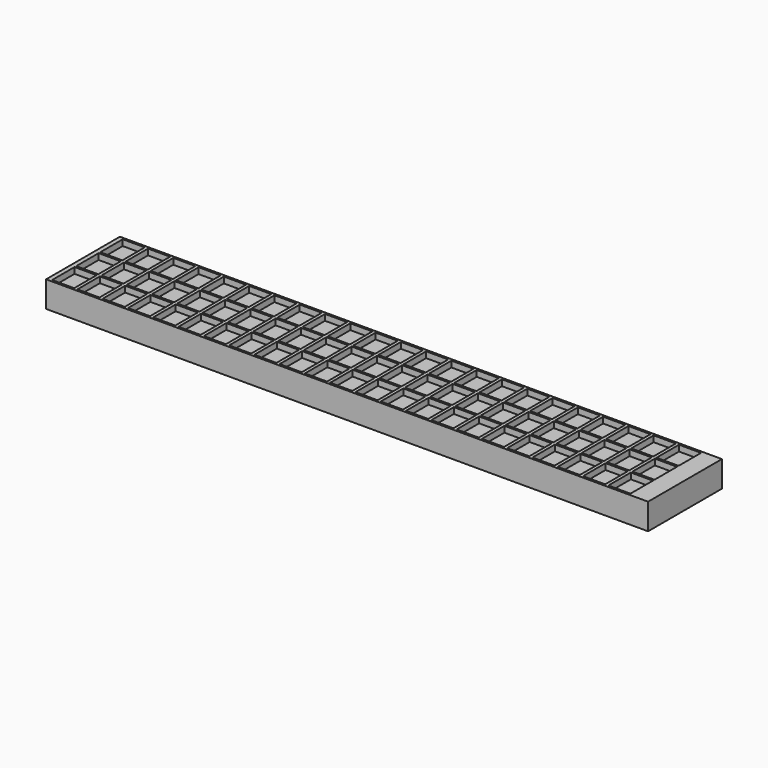
from build123d import *

# Parameters (mm, degrees)
BOX024_W          = 5.5
BOX024_H          = 7
BOX024_DEPTH      = 1.5
BOX023_W          = 5.5
BOX023_H          = 7
BOX023_DEPTH      = 1.5
BOX022_W          = 5.5
BOX022_H          = 7
BOX022_DEPTH      = 1.5
BOX021_W          = 150
BOX021_H          = 23
BOX021_DEPTH      = 1.5
CYLINDER006_R     = 3
CYLINDER006_DEPTH = 2.5
CYLINDER005_R     = 3
CYLINDER005_DEPTH = 2.5
CYLINDER007_R     = 3
CYLINDER007_DEPTH = 2.5
CYLINDER004_R     = 3
CYLINDER004_DEPTH = 2.5
BOX001_W          = 150
BOX001_H          = 23
BOX001_DEPTH      = 5


with BuildPart() as cube003:
    # Box024 → Box024 (new body)
    with BuildSketch(Plane(origin=(1.1, 15.5, 8), x_dir=(1, 0, 0), z_dir=(0, 0, 1))):
        with Locations((2.75, 3.5)):
            Rectangle(BOX024_W, BOX024_H)
    extrude(amount=BOX024_DEPTH)


with BuildPart() as cube002:
    # Box023 → Box023 (new body)
    with BuildSketch(Plane(origin=(1.1, 8, 8), x_dir=(1, 0, 0), z_dir=(0, 0, 1))):
        with Locations((2.75, 3.5)):
            Rectangle(BOX023_W, BOX023_H)
    extrude(amount=BOX023_DEPTH)


with BuildPart() as cube001:
    # Box022 → Box022 (new body)
    with BuildSketch(Plane(origin=(1.1, 0.5, 8), x_dir=(1, 0, 0), z_dir=(0, 0, 1))):
        with Locations((2.75, 3.5)):
            Rectangle(BOX022_W, BOX022_H)
    extrude(amount=BOX022_DEPTH)


with BuildPart() as fusion019:
    # Fusion019 base: copy of Cube001
    add(cube001.part)

    # Fusion019: union Cube003, Cube002
    add(cube003.part)
    add(cube002.part)


with BuildPart() as fusion019_1:
    # Fusion019 placement: moved
    add(fusion019.part.moved(Location((56.7, 0, 0))))


with BuildPart() as fusion018:
    # Fusion018 base: copy of Cube001
    add(cube001.part)

    # Fusion018: union Cube003, Cube002
    add(cube003.part)
    add(cube002.part)


with BuildPart() as fusion018_1:
    # Fusion018 placement: moved
    add(fusion018.part.moved(Location((50.4, 0, 0))))


with BuildPart() as fusion014:
    # Fusion014 base: copy of Cube001
    add(cube001.part)

    # Fusion014: union Cube003, Cube002
    add(cube003.part)
    add(cube002.part)


with BuildPart() as fusion014_1:
    # Fusion014 placement: moved
    add(fusion014.part.moved(Location((25.2, 0, 0))))


with BuildPart() as fusion015:
    # Fusion015 base: copy of Cube001
    add(cube001.part)

    # Fusion015: union Cube003, Cube002
    add(cube003.part)
    add(cube002.part)


with BuildPart() as fusion015_1:
    # Fusion015 placement: moved
    add(fusion015.part.moved(Location((31.5, 0, 0))))


with BuildPart() as fusion017:
    # Fusion017 base: copy of Cube001
    add(cube001.part)

    # Fusion017: union Cube003, Cube002
    add(cube003.part)
    add(cube002.part)


with BuildPart() as fusion017_1:
    # Fusion017 placement: moved
    add(fusion017.part.moved(Location((44.1, 0, 0))))


with BuildPart() as fusion016:
    # Fusion016 base: copy of Cube001
    add(cube001.part)

    # Fusion016: union Cube003, Cube002
    add(cube003.part)
    add(cube002.part)


with BuildPart() as fusion016_1:
    # Fusion016 placement: moved
    add(fusion016.part.moved(Location((37.8, 0, 0))))


with BuildPart() as fusion013:
    # Fusion013 base: copy of Cube001
    add(cube001.part)

    # Fusion013: union Cube003, Cube002
    add(cube003.part)
    add(cube002.part)


with BuildPart() as fusion013_1:
    # Fusion013 placement: moved
    add(fusion013.part.moved(Location((18.9, 0, 0))))


with BuildPart() as fusion011:
    # Fusion011 base: copy of Cube001
    add(cube001.part)

    # Fusion011: union Cube003, Cube002
    add(cube003.part)
    add(cube002.part)


with BuildPart() as fusion011_1:
    # Fusion011 placement: moved
    add(fusion011.part.moved(Location((6.3, 0, 0))))


with BuildPart() as fusion012:
    # Fusion012 base: copy of Cube001
    add(cube001.part)

    # Fusion012: union Cube003, Cube002
    add(cube003.part)
    add(cube002.part)


with BuildPart() as fusion012_1:
    # Fusion012 placement: moved
    add(fusion012.part.moved(Location((12.6, 0, 0))))


with BuildPart() as fusion010:
    # Fusion010 base: copy of Cube001
    add(cube001.part)

    # Fusion010: union Cube003, Cube002
    add(cube003.part)
    add(cube002.part)


with BuildPart() as f_10_of_them001:
    # Fusion021 base: copy of Fusion010
    add(fusion010.part)

    # Fusion021: union Fusion019, Fusion018, Fusion014, Fusion015, Fusion017, Fusion016, Fusion013, Fusion011, Fusion012
    add(fusion019_1.part)
    add(fusion018_1.part)
    add(fusion014_1.part)
    add(fusion015_1.part)
    add(fusion017_1.part)
    add(fusion016_1.part)
    add(fusion013_1.part)
    add(fusion011_1.part)
    add(fusion012_1.part)


with BuildPart() as f_10_of_them001_1:
    # Fusion021 placement: moved
    add(f_10_of_them001.part.moved(Location((63, 0, 0))))


with BuildPart() as fusion022:
    # Fusion022 base: copy of Cube001
    add(cube001.part)

    # Fusion022: union Cube003, Cube002
    add(cube003.part)
    add(cube002.part)


with BuildPart() as fusion022_1:
    # Fusion022 placement: moved
    add(fusion022.part.moved(Location((126, 0, 0))))


with BuildPart() as fusion024:
    # Fusion024 base: copy of Cube001
    add(cube001.part)

    # Fusion024: union Cube003, Cube002
    add(cube003.part)
    add(cube002.part)


with BuildPart() as fusion024_1:
    # Fusion024 placement: moved
    add(fusion024.part.moved(Location((138.6, 0, 0))))


with BuildPart() as fusion023:
    # Fusion023 base: copy of Cube001
    add(cube001.part)

    # Fusion023: union Cube003, Cube002
    add(cube003.part)
    add(cube002.part)


with BuildPart() as fusion023_1:
    # Fusion023 placement: moved
    add(fusion023.part.moved(Location((132.3, 0, 0))))


with BuildPart() as holes_soic8:
    # Fusion020 base: copy of Fusion010
    add(fusion010.part)

    # Fusion020: union Fusion019, Fusion018, Fusion014, Fusion015, Fusion017, Fusion016, Fusion013, Fusion011, Fusion012
    add(fusion019_1.part)
    add(fusion018_1.part)
    add(fusion014_1.part)
    add(fusion015_1.part)
    add(fusion017_1.part)
    add(fusion016_1.part)
    add(fusion013_1.part)
    add(fusion011_1.part)
    add(fusion012_1.part)

    # Fusion025: union 10 of them001, Fusion022, Fusion024, Fusion023
    add(f_10_of_them001_1.part)
    add(fusion022_1.part)
    add(fusion024_1.part)
    add(fusion023_1.part)


with BuildPart() as f_69x_soic8:
    # Box021 → Box021 (new body)
    with BuildSketch(Plane.XY.offset(8)):
        with Locations((75, 11.5)):
            Rectangle(BOX021_W, BOX021_H)
    extrude(amount=BOX021_DEPTH)

    # Cut008: cut Holes_SOIC8
    add(holes_soic8.part, mode=Mode.SUBTRACT)


with BuildPart() as cone002:
    # Cone002 → Cone002 (revolve)
    with BuildSketch(Plane(origin=(40, 11.5, 3), x_dir=(1, 0, 0), z_dir=(0, -1, 0))):
        Polygon((0, 0), (5.1, 0), (1.1, 4.1), (0, 4.1), align=None)
    revolve(axis=Axis((40, 11.5, 3), (0, 0, 1)))


with BuildPart() as cone003:
    # Cone003 → Cone003 (revolve)
    with BuildSketch(Plane(origin=(110, 11.5, 3), x_dir=(1, 0, 0), z_dir=(0, -1, 0))):
        Polygon((0, 0), (5.1, 0), (1.1, 4.1), (0, 4.1), align=None)
    revolve(axis=Axis((110, 11.5, 3), (0, 0, 1)))


with BuildPart() as cylinder006:
    # Cylinder006 → Cylinder006 (new body)
    with BuildSketch(Plane(origin=(24, 11.5, 3), x_dir=(1, 0, 0), z_dir=(0, 0, 1))):
        Circle(CYLINDER006_R)
    extrude(amount=CYLINDER006_DEPTH)


with BuildPart() as cylinder005:
    # Cylinder005 → Cylinder005 (new body)
    with BuildSketch(Plane(origin=(126, 11.5, 3), x_dir=(1, 0, 0), z_dir=(0, 0, 1))):
        Circle(CYLINDER005_R)
    extrude(amount=CYLINDER005_DEPTH)


with BuildPart() as cylinder007:
    # Cylinder007 → Cylinder007 (new body)
    with BuildSketch(Plane(origin=(134, 11.5, 3), x_dir=(1, 0, 0), z_dir=(0, 0, 1))):
        Circle(CYLINDER007_R)
    extrude(amount=CYLINDER007_DEPTH)


with BuildPart() as removals:
    # Cylinder004 → Cylinder004 (new body)
    with BuildSketch(Plane(origin=(16, 11.5, 3), x_dir=(1, 0, 0), z_dir=(0, 0, 1))):
        Circle(CYLINDER004_R)
    extrude(amount=CYLINDER004_DEPTH)

    # Fusion002: union Cone002, Cone003, Cylinder006, Cylinder005, Cylinder007
    add(cone002.part)
    add(cone003.part)
    add(cylinder006.part)
    add(cylinder005.part)
    add(cylinder007.part)


with BuildPart() as top_69x_soic8:
    # Box001 → Box001 (new body)
    with BuildSketch(Plane.XY.offset(3)):
        with Locations((75, 11.5)):
            Rectangle(BOX001_W, BOX001_H)
    extrude(amount=BOX001_DEPTH)

    # Cut007: cut removals
    add(removals.part, mode=Mode.SUBTRACT)

    # Fusion026: union 69X_SOIC8
    add(f_69x_soic8.part)


solid = top_69x_soic8.part
